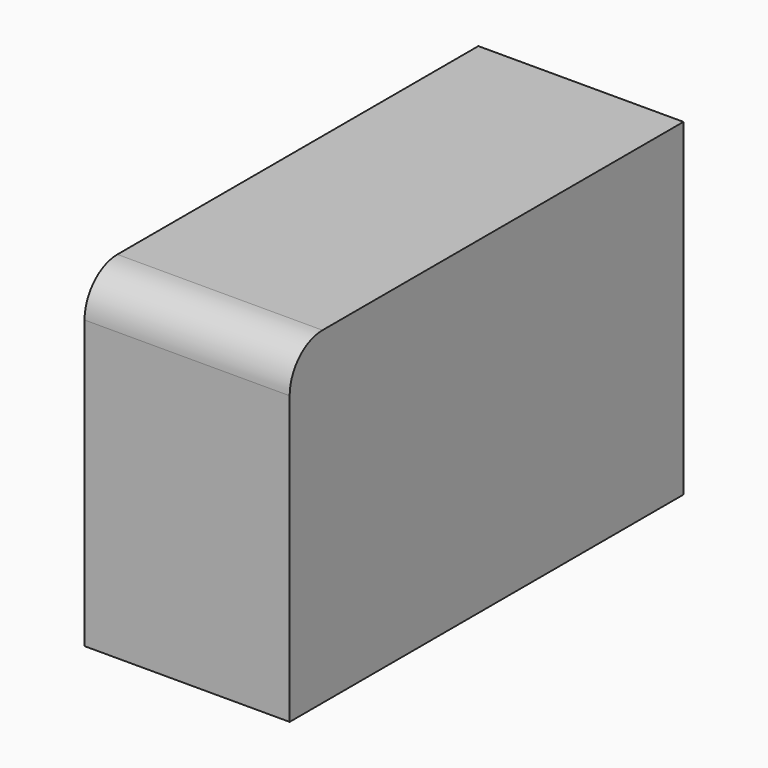
from build123d import *

# Parameters (mm, degrees)
F0_W     = 60
F0_H     = 40
F1_DEPTH = 25
F2_R     = 5


with BuildPart() as f1:
    # F0 (on Right) → F1 (new body)
    with BuildSketch(Plane.YZ):
        Rectangle(F0_W, F0_H)
    extrude(amount=F1_DEPTH)

    # F2
    f2_edges = [f1.edges().sort_by_distance(p)[0] for p in [
        (12.5, -30, 20),
    ]]
    fillet(f2_edges, radius=F2_R)


solid = f1.part
